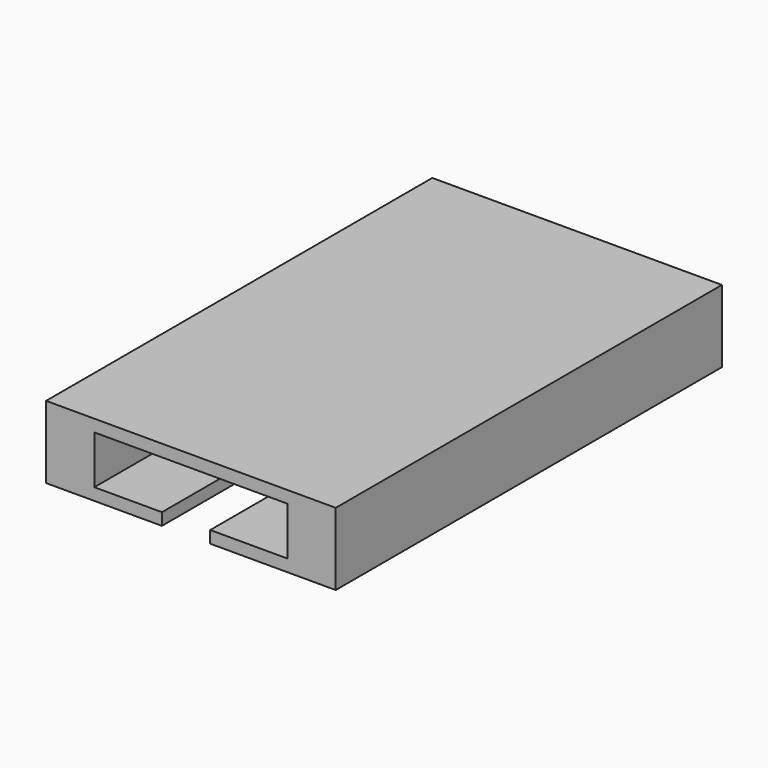
from build123d import *

# Parameters (mm, degrees)
F0_W     = 60
F0_H     = 15
F1_DEPTH = 100
F2_W     = 40
F2_H     = 10
F3_DEPTH = 30
F4_W     = 10
F4_H     = 30
F5_DEPTH = 25


with BuildPart() as f1:
    # F0 (on Front) → F1 (new body)
    with BuildSketch(Plane.XZ):
        Rectangle(F0_W, F0_H)
    extrude(amount=-F1_DEPTH)

    # F2 (on face) → F3 (cut)
    with BuildSketch(Plane.XZ):
        Rectangle(F2_W, F2_H)
    extrude(amount=-F3_DEPTH, mode=Mode.SUBTRACT)

    # F4 (on face) → F5 (cut)
    with BuildSketch(Plane.XY.offset(-5)):
        with Locations((-1, 15)):
            Rectangle(F4_W, F4_H)
    extrude(amount=-F5_DEPTH, mode=Mode.SUBTRACT)


solid = f1.part
